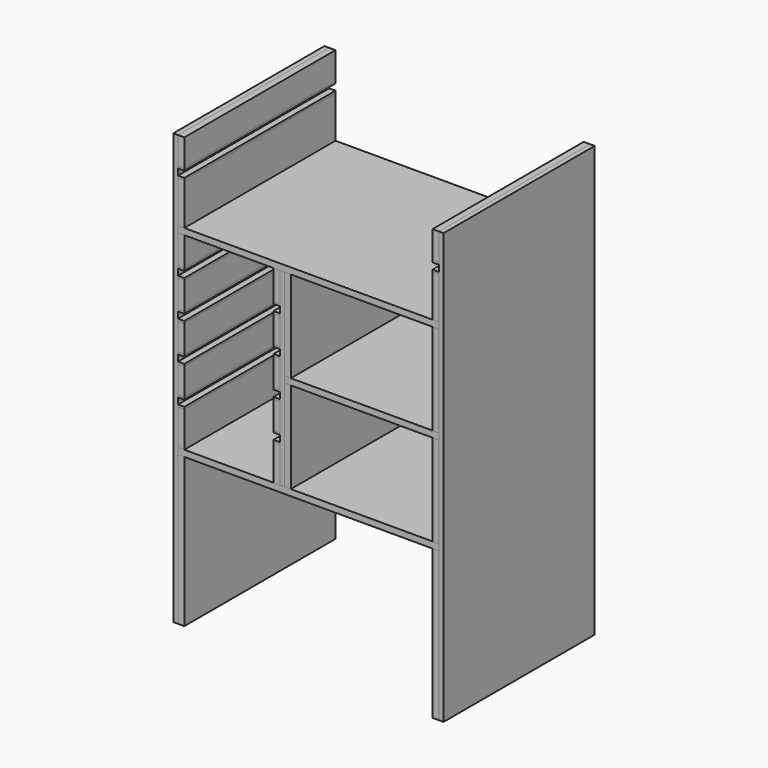
from build123d import *

# Parameters (mm, degrees)
F1_DEPTH = 360
F0_W     = 12
F0_H     = 52
F0_H_2   = 80
F2_DEPTH = 360
F0_H_3   = 174
F0_H_4   = 284
F0_H_5   = 68
F0_H_6   = 56
F3_DEPTH = 360
F0_H_7   = 4
F4_DEPTH = 360


with BuildPart() as f1:
    # F0 (on Front) → F1 (new body)
    with BuildSketch(Plane.XZ):
        Polygon((-154.367277503, 487.940790534), (-166.367277503, 487.940790534), (-166.367277503, 475.940790534), (-154.367277503, 475.940790534), (15.632722497, 475.940790534), (27.632722497, 475.940790534), (36.632722497, 475.940790534), (48.632722497, 475.940790534), (318.632722497, 475.940790534), (330.632722497, 475.940790534), (330.632722497, 487.940790534), (318.632722497, 487.940790534), align=None)
    extrude(amount=F1_DEPTH)


with BuildPart() as f1b:
    # F0 (on Front) → F1, piece 2 (new body)
    with BuildSketch(Plane.XZ):
        Polygon((-166.367277503, 115.940790534), (-166.367277503, 103.940790534), (-154.367277503, 103.940790534), (318.632722497, 103.940790534), (330.632722497, 103.940790534), (330.632722497, 115.940790534), (318.632722497, 115.940790534), (48.632722497, 115.940790534), (36.632722497, 115.940790534), (27.632722497, 115.940790534), (15.632722497, 115.940790534), (-154.367277503, 115.940790534), align=None)
    extrude(amount=F1_DEPTH)


with BuildPart() as f1c:
    # F0 (on Front) → F1, piece 3 (new body)
    with BuildSketch(Plane.XZ):
        with Locations((21.632722497, 373.940790534)):
            Rectangle(F0_W, F0_H)
    extrude(amount=F1_DEPTH)


with BuildPart() as f1d:
    # F0 (on Front) → F1, piece 4 (new body)
    with BuildSketch(Plane.XZ):
        with Locations((21.632722497, 301.940790534)):
            Rectangle(F0_W, F0_H)
    extrude(amount=F1_DEPTH)


with BuildPart() as f1e:
    # F0 (on Front) → F1, piece 5 (new body)
    with BuildSketch(Plane.XZ):
        with Locations((21.632722497, 229.940790534)):
            Rectangle(F0_W, F0_H)
    extrude(amount=F1_DEPTH)


with BuildPart() as f1f:
    # F0 (on Front) → F1, piece 6 (new body)
    with BuildSketch(Plane.XZ):
        with Locations((-160.367277503, 229.940790534)):
            Rectangle(F0_W, F0_H)
    extrude(amount=F1_DEPTH)


with BuildPart() as f1g:
    # F0 (on Front) → F1, piece 7 (new body)
    with BuildSketch(Plane.XZ):
        with Locations((-160.367277503, 301.940790534)):
            Rectangle(F0_W, F0_H)
    extrude(amount=F1_DEPTH)


with BuildPart() as f1h:
    # F0 (on Front) → F1, piece 8 (new body)
    with BuildSketch(Plane.XZ):
        with Locations((-160.367277503, 373.940790534)):
            Rectangle(F0_W, F0_H)
    extrude(amount=F1_DEPTH)


with BuildPart() as f1i:
    # F0 (on Front) → F1, piece 9 (new body)
    with BuildSketch(Plane.XZ):
        Polygon((318.632722497, 289.940790534), (330.632722497, 289.940790534), (330.632722497, 301.940790534), (318.632722497, 301.940790534), (48.632722497, 301.940790534), (36.632722497, 301.940790534), (36.632722497, 289.940790534), (48.632722497, 289.940790534), align=None)
    extrude(amount=F1_DEPTH)


with BuildPart() as f1j:
    # F0 (on Front) → F1, piece 10 (new body)
    with BuildSketch(Plane.XZ):
        with Locations((324.632722497, 613.940790534)):
            Rectangle(F0_W, F0_H)
    extrude(amount=F1_DEPTH)


with BuildPart() as f1k:
    # F0 (on Front) → F1, piece 11 (new body)
    with BuildSketch(Plane.XZ):
        with Locations((-160.367277503, 613.940790534)):
            Rectangle(F0_W, F0_H)
    extrude(amount=F1_DEPTH)


with BuildPart() as f2:
    # F0 (on Front) → F2 (new body)
    with BuildSketch(Plane.XZ):
        with Locations((-160.367277503, 527.940790534)):
            Rectangle(F0_W, F0_H_2)
    extrude(amount=F2_DEPTH)


with BuildPart() as f2b:
    # F0 (on Front) → F2, piece 2 (new body)
    with BuildSketch(Plane.XZ):
        with Locations((324.632722497, 527.940790534)):
            Rectangle(F0_W, F0_H_2)
    extrude(amount=F2_DEPTH)


with BuildPart() as f2c:
    # F0 (on Front) → F2, piece 3 (new body)
    with BuildSketch(Plane.XZ):
        with Locations((324.632722497, 388.940790534)):
            Rectangle(F0_W, F0_H_3)
    extrude(amount=F2_DEPTH)


with BuildPart() as f2d:
    # F0 (on Front) → F2, piece 4 (new body)
    with BuildSketch(Plane.XZ):
        with Locations((324.632722497, 202.940790534)):
            Rectangle(F0_W, F0_H_3)
    extrude(amount=F2_DEPTH)


with BuildPart() as f2e:
    # F0 (on Front) → F2, piece 5 (new body)
    with BuildSketch(Plane.XZ):
        with Locations((324.632722497, -38.059209466)):
            Rectangle(F0_W, F0_H_4)
    extrude(amount=F2_DEPTH)


with BuildPart() as f2f:
    # F0 (on Front) → F2, piece 6 (new body)
    with BuildSketch(Plane.XZ):
        with Locations((-160.367277503, 149.940790534)):
            Rectangle(F0_W, F0_H_5)
    extrude(amount=F2_DEPTH)


with BuildPart() as f2g:
    # F0 (on Front) → F2, piece 7 (new body)
    with BuildSketch(Plane.XZ):
        with Locations((21.632722497, 149.940790534)):
            Rectangle(F0_W, F0_H_5)
    extrude(amount=F2_DEPTH)


with BuildPart() as f2h:
    # F0 (on Front) → F2, piece 8 (new body)
    with BuildSketch(Plane.XZ):
        with Locations((-160.367277503, -38.059209466)):
            Rectangle(F0_W, F0_H_4)
    extrude(amount=F2_DEPTH)


with BuildPart() as f2i:
    # F0 (on Front) → F2, piece 9 (new body)
    with BuildSketch(Plane.XZ):
        with Locations((-160.367277503, 447.940790534)):
            Rectangle(F0_W, F0_H_6)
    extrude(amount=F2_DEPTH)


with BuildPart() as f2j:
    # F0 (on Front) → F2, piece 10 (new body)
    with BuildSketch(Plane.XZ):
        with Locations((21.632722497, 447.940790534)):
            Rectangle(F0_W, F0_H_6)
    extrude(amount=F2_DEPTH)


with BuildPart() as f2k:
    # F0 (on Front) → F2, piece 11 (new body)
    with BuildSketch(Plane.XZ):
        with Locations((42.632722497, 388.940790534)):
            Rectangle(F0_W, F0_H_3)
    extrude(amount=F2_DEPTH)


with BuildPart() as f2l:
    # F0 (on Front) → F2, piece 12 (new body)
    with BuildSketch(Plane.XZ):
        with Locations((42.632722497, 202.940790534)):
            Rectangle(F0_W, F0_H_3)
    extrude(amount=F2_DEPTH)


with BuildPart() as f3:
    # F0 (on Front) → F3 (new body)
    with BuildSketch(Plane.XZ):
        Polygon((330.632722497, 115.940790534), (330.632722497, 103.940790534), (330.632722497, -180.059209466), (339.632722497, -180.059209466), (339.632722497, 639.940790534), (330.632722497, 639.940790534), (330.632722497, 587.940790534), (330.632722497, 583.940790534), (330.632722497, 571.940790534), (330.632722497, 567.940790534), (330.632722497, 487.940790534), (330.632722497, 475.940790534), (330.632722497, 301.940790534), (330.632722497, 289.940790534), align=None)
    extrude(amount=F3_DEPTH)


with BuildPart() as f3b:
    # F0 (on Front) → F3, piece 2 (new body)
    with BuildSketch(Plane.XZ):
        Polygon((-166.367277503, 639.940790534), (-175.367277503, 639.940790534), (-175.367277503, -180.059209466), (-166.367277503, -180.059209466), (-166.367277503, 103.940790534), (-166.367277503, 115.940790534), (-166.367277503, 183.940790534), (-166.367277503, 187.940790534), (-166.367277503, 199.940790534), (-166.367277503, 203.940790534), (-166.367277503, 255.940790534), (-166.367277503, 259.940790534), (-166.367277503, 271.940790534), (-166.367277503, 275.940790534), (-166.367277503, 327.940790534), (-166.367277503, 331.940790534), (-166.367277503, 343.940790534), (-166.367277503, 347.940790534), (-166.367277503, 399.940790534), (-166.367277503, 403.940790534), (-166.367277503, 415.940790534), (-166.367277503, 419.940790534), (-166.367277503, 475.940790534), (-166.367277503, 487.940790534), (-166.367277503, 567.940790534), (-166.367277503, 571.940790534), (-166.367277503, 583.940790534), (-166.367277503, 587.940790534), align=None)
    extrude(amount=F3_DEPTH)


with BuildPart() as f3c:
    # F0 (on Front) → F3, piece 3 (new body)
    with BuildSketch(Plane.XZ):
        Polygon((27.632722497, 183.940790534), (27.632722497, 115.940790534), (36.632722497, 115.940790534), (36.632722497, 289.940790534), (36.632722497, 301.940790534), (36.632722497, 475.940790534), (27.632722497, 475.940790534), (27.632722497, 419.940790534), (27.632722497, 415.940790534), (27.632722497, 403.940790534), (27.632722497, 399.940790534), (27.632722497, 347.940790534), (27.632722497, 343.940790534), (27.632722497, 331.940790534), (27.632722497, 327.940790534), (27.632722497, 275.940790534), (27.632722497, 271.940790534), (27.632722497, 259.940790534), (27.632722497, 255.940790534), (27.632722497, 203.940790534), (27.632722497, 199.940790534), (27.632722497, 187.940790534), align=None)
    extrude(amount=F3_DEPTH)


with BuildPart() as f4:
    # F0 (on Front) → F4 (new body)
    with BuildSketch(Plane.XZ):
        with Locations((-160.367277503, 417.940790534)):
            Rectangle(F0_W, F0_H_7)
    extrude(amount=F4_DEPTH)


with BuildPart() as f4b:
    # F0 (on Front) → F4, piece 2 (new body)
    with BuildSketch(Plane.XZ):
        with Locations((-160.367277503, 401.940790534)):
            Rectangle(F0_W, F0_H_7)
    extrude(amount=F4_DEPTH)


with BuildPart() as f4c:
    # F0 (on Front) → F4, piece 3 (new body)
    with BuildSketch(Plane.XZ):
        with Locations((-160.367277503, 345.940790534)):
            Rectangle(F0_W, F0_H_7)
    extrude(amount=F4_DEPTH)


with BuildPart() as f4d:
    # F0 (on Front) → F4, piece 4 (new body)
    with BuildSketch(Plane.XZ):
        with Locations((-160.367277503, 329.940790534)):
            Rectangle(F0_W, F0_H_7)
    extrude(amount=F4_DEPTH)


with BuildPart() as f4e:
    # F0 (on Front) → F4, piece 5 (new body)
    with BuildSketch(Plane.XZ):
        with Locations((-160.367277503, 273.940790534)):
            Rectangle(F0_W, F0_H_7)
    extrude(amount=F4_DEPTH)


with BuildPart() as f4f:
    # F0 (on Front) → F4, piece 6 (new body)
    with BuildSketch(Plane.XZ):
        with Locations((-160.367277503, 257.940790534)):
            Rectangle(F0_W, F0_H_7)
    extrude(amount=F4_DEPTH)


with BuildPart() as f4g:
    # F0 (on Front) → F4, piece 7 (new body)
    with BuildSketch(Plane.XZ):
        with Locations((-160.367277503, 201.940790534)):
            Rectangle(F0_W, F0_H_7)
    extrude(amount=F4_DEPTH)


with BuildPart() as f4h:
    # F0 (on Front) → F4, piece 8 (new body)
    with BuildSketch(Plane.XZ):
        with Locations((-160.367277503, 185.940790534)):
            Rectangle(F0_W, F0_H_7)
    extrude(amount=F4_DEPTH)


with BuildPart() as f4i:
    # F0 (on Front) → F4, piece 9 (new body)
    with BuildSketch(Plane.XZ):
        with Locations((21.632722497, 185.940790534)):
            Rectangle(F0_W, F0_H_7)
    extrude(amount=F4_DEPTH)


with BuildPart() as f4j:
    # F0 (on Front) → F4, piece 10 (new body)
    with BuildSketch(Plane.XZ):
        with Locations((21.632722497, 201.940790534)):
            Rectangle(F0_W, F0_H_7)
    extrude(amount=F4_DEPTH)


with BuildPart() as f4k:
    # F0 (on Front) → F4, piece 11 (new body)
    with BuildSketch(Plane.XZ):
        with Locations((21.632722497, 273.940790534)):
            Rectangle(F0_W, F0_H_7)
    extrude(amount=F4_DEPTH)


with BuildPart() as f4l:
    # F0 (on Front) → F4, piece 12 (new body)
    with BuildSketch(Plane.XZ):
        with Locations((21.632722497, 257.940790534)):
            Rectangle(F0_W, F0_H_7)
    extrude(amount=F4_DEPTH)


with BuildPart() as f4m:
    # F0 (on Front) → F4, piece 13 (new body)
    with BuildSketch(Plane.XZ):
        with Locations((21.632722497, 345.940790534)):
            Rectangle(F0_W, F0_H_7)
    extrude(amount=F4_DEPTH)


with BuildPart() as f4n:
    # F0 (on Front) → F4, piece 14 (new body)
    with BuildSketch(Plane.XZ):
        with Locations((21.632722497, 329.940790534)):
            Rectangle(F0_W, F0_H_7)
    extrude(amount=F4_DEPTH)


with BuildPart() as f4o:
    # F0 (on Front) → F4, piece 15 (new body)
    with BuildSketch(Plane.XZ):
        with Locations((21.632722497, 417.940790534)):
            Rectangle(F0_W, F0_H_7)
    extrude(amount=F4_DEPTH)


with BuildPart() as f4p:
    # F0 (on Front) → F4, piece 16 (new body)
    with BuildSketch(Plane.XZ):
        with Locations((21.632722497, 401.940790534)):
            Rectangle(F0_W, F0_H_7)
    extrude(amount=F4_DEPTH)


with BuildPart() as f4q:
    # F0 (on Front) → F4, piece 17 (new body)
    with BuildSketch(Plane.XZ):
        with Locations((-160.367277503, 585.940790534)):
            Rectangle(F0_W, F0_H_7)
    extrude(amount=F4_DEPTH)


with BuildPart() as f4r:
    # F0 (on Front) → F4, piece 18 (new body)
    with BuildSketch(Plane.XZ):
        with Locations((-160.367277503, 569.940790534)):
            Rectangle(F0_W, F0_H_7)
    extrude(amount=F4_DEPTH)


with BuildPart() as f4s:
    # F0 (on Front) → F4, piece 19 (new body)
    with BuildSketch(Plane.XZ):
        with Locations((324.632722497, 585.940790534)):
            Rectangle(F0_W, F0_H_7)
    extrude(amount=F4_DEPTH)


with BuildPart() as f4t:
    # F0 (on Front) → F4, piece 20 (new body)
    with BuildSketch(Plane.XZ):
        with Locations((324.632722497, 569.940790534)):
            Rectangle(F0_W, F0_H_7)
    extrude(amount=F4_DEPTH)


solid = Compound([f1.part, f1b.part, f1c.part, f1d.part, f1e.part, f1f.part, f1g.part, f1h.part, f1i.part, f1j.part, f1k.part, f2.part, f2b.part, f2c.part, f2d.part, f2e.part, f2f.part, f2g.part, f2h.part, f2i.part, f2j.part, f2k.part, f2l.part, f3.part, f3b.part, f3c.part, f4.part, f4b.part, f4c.part, f4d.part, f4e.part, f4f.part, f4g.part, f4h.part, f4i.part, f4j.part, f4k.part, f4l.part, f4m.part, f4n.part, f4o.part, f4p.part, f4q.part, f4r.part, f4s.part, f4t.part])
